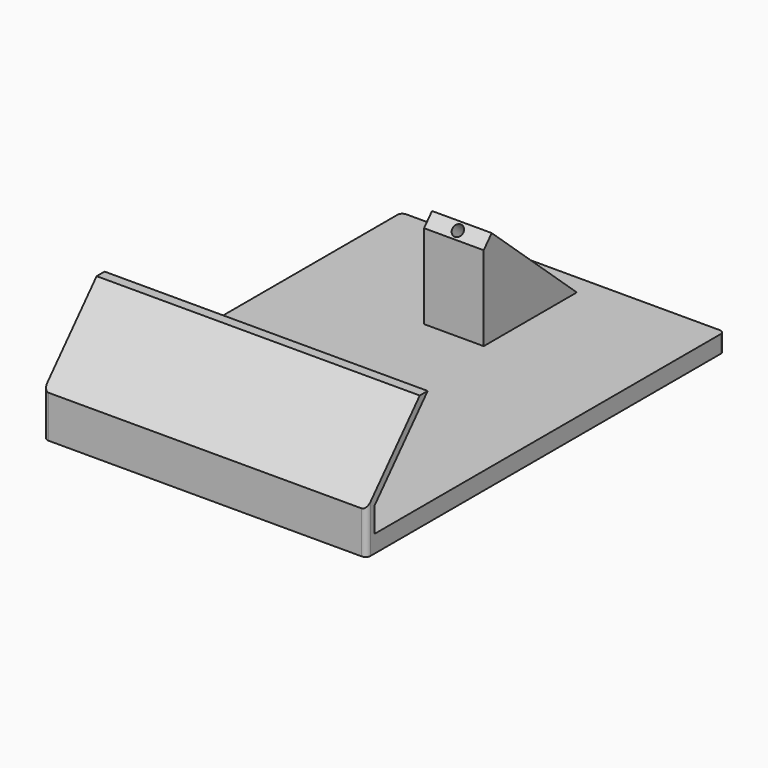
from build123d import *

# Parameters (mm, degrees)
F3_W      = 20
F3_H      = 50
F4_DEPTH  = 325
F5_R      = 10
F6_DEPTH  = 15
F7_DEPTH  = 60
F8_R      = 11
F9_DEPTH  = 50
F11_D     = 5.5
F11_DEPTH = 30
F11_TIP   = 1.6523667023
F12_D     = 5.5


with BuildPart() as f4:
    # F3 (on Right) → F4 (new body, symmetric)
    with BuildSketch(Plane.YZ):
        Polygon((-655.070145556, 35), (-655.070145556, 0), (244.929854444, 0), (244.929854444, 35), (204.7982960939, 35), (-29.3592664599, 35), (-585.070145556, 35), (-635.070145556, 35), align=None)
        with Locations((-645.070145556, 60)):
            Rectangle(F3_W, F3_H)
        Polygon((-521.4594720054, 233.8226727127), (-655.070145556, 85), (-635.070145556, 85), (-585.070145556, 140.6926586619), (-501.4594720054, 233.8226727127), align=None)
    extrude(amount=F4_DEPTH, both=True)

    # F5
    f5_edges = [f4.edges().sort_by_distance(p)[0] for p in [
        (325, -655.070146, 42.5),
        (325, 244.929854, 17.5),
        (-325, -655.070146, 42.5),
        (-325, 244.929854, 17.5),
    ]]
    fillet(f5_edges, radius=F5_R)

    # F3 (on Right) → F6 (join, symmetric)
    with BuildSketch(Plane.YZ):
        Polygon((-635.070145556, 85), (-635.070145556, 35), (-585.070145556, 35), (-585.070145556, 140.6926586619), align=None)
    extrude(amount=F6_DEPTH, both=True)

    # F12 (through all)
    with Locations(Plane.XY.offset(35)):
        with Locations((40, 22.719514817), (-40, 22.719514817), (-40, 152.719514817), (40, 152.719514817)):
            Hole(F12_D / 2)


with BuildPart() as f7:
    # F3 (on Right) → F7 (new body, symmetric)
    with BuildSketch(Plane.YZ):
        Polygon((-29.3592664599, 35), (204.7982960939, 35), (-9.3176654273, 227.2299695021), (-29.3592664599, 204.9065685952), align=None)
    extrude(amount=F7_DEPTH, both=True)

    # F8 (on face) → F9 (cut)
    with BuildSketch(Plane(origin=(0, -118.1169432138, 106.0435486937), x_dir=(1, 0, 0), z_dir=(0, -0.7441133636, 0.6680533678))):
        with Locations((0, 147.8601591404)):
            Circle(F8_R)
    extrude(amount=-F9_DEPTH, mode=Mode.SUBTRACT)

    # F11
    with Locations(Plane(origin=(0, 0, 35), x_dir=(1, 0, 0), z_dir=(0, 0, -1))):
        with Locations((-40, -22.719514817), (40, -22.719514817), (40, -152.719514817), (-40, -152.719514817)):
            Hole(F11_D / 2, depth=F11_DEPTH)
            with Locations((0, 0, -(F11_DEPTH + F11_TIP / 2))):  # 118° drill point
                Cone(0, F11_D / 2, F11_TIP, mode=Mode.SUBTRACT)


solid = Compound([f4.part, f7.part])
